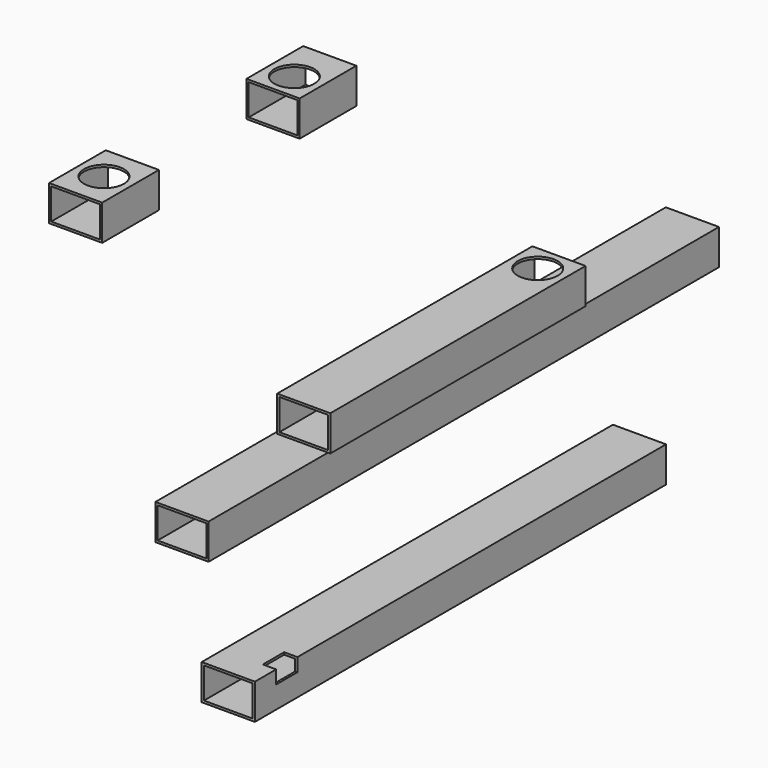
from build123d import *

# Parameters (mm, degrees)
F0_W      = 38.1
F0_H      = 25.4
F0_W_2    = 34.925
F0_H_2    = 22.225
F1_DEPTH  = 228.6
F2_W      = 38.1
F2_H      = 25.4
F2_W_2    = 34.925
F2_H_2    = 22.225
F3_DEPTH  = 228.6
F4_W      = 38.1
F4_H      = 25.4
F4_W_2    = 34.925
F4_H_2    = 22.225
F5_DEPTH  = 50.8
F6_W      = 38.1
F6_H      = 25.4
F6_W_2    = 34.925
F6_H_2    = 22.225
F7_DEPTH  = 50.8
F8_R      = 14.2875
F9_DEPTH  = 1.5875
F10_R     = 14.2875
F11_DEPTH = 12.7
F12_R     = 14.2875
F13_DEPTH = 122.115541
F14_W     = 38.1
F14_H     = 25.4
F14_W_2   = 34.925
F14_H_2   = 22.225
F15_DEPTH = 368.3
F16_W     = 19.05
F16_H     = 9.525
F17_DEPTH = 9.525


with BuildPart() as f1:
    # F0 (on Front) → F1 (new body, symmetric)
    with BuildSketch(Plane.XZ):
        Rectangle(F0_W, F0_H)
        Rectangle(F0_W_2, F0_H_2, mode=Mode.SUBTRACT)
    extrude(amount=F1_DEPTH, both=True)


with BuildPart() as f3:
    # F2 (on Front) → F3 (new body)
    with BuildSketch(Plane.XZ):
        with Locations((87.275213, 96.714541)):
            Rectangle(F2_W, F2_H)
        with Locations((87.275213, 96.714541)):
            Rectangle(F2_W_2, F2_H_2, mode=Mode.SUBTRACT)
    extrude(amount=F3_DEPTH)

    # F12 (on face) → F13 (cut, through all)
    with BuildSketch(Plane.XY.offset(109.414541)):
        with Locations((87.275213, -19.05)):
            Circle(F12_R)
    extrude(amount=-F13_DEPTH, mode=Mode.SUBTRACT)


with BuildPart() as f5:
    # F4 (on Front) → F5 (new body)
    with BuildSketch(Plane.XZ):
        with Locations((-76.968681, 169.599749)):
            Rectangle(F4_W, F4_H)
        with Locations((-76.968681, 169.599749)):
            Rectangle(F4_W_2, F4_H_2, mode=Mode.SUBTRACT)
    extrude(amount=F5_DEPTH)

    # F10 (on face) → F11 (cut)
    with BuildSketch(Plane.XY.offset(182.299749)):
        with Locations((-76.968681, -31.75)):
            Circle(F10_R)
    extrude(amount=-F11_DEPTH, mode=Mode.SUBTRACT)


with BuildPart() as f7:
    # F6 (on Front) → F7 (new body)
    with BuildSketch(Plane.XZ):
        with Locations((-218.458414, 57.868749)):
            Rectangle(F6_W, F6_H)
        with Locations((-218.458414, 57.868749)):
            Rectangle(F6_W_2, F6_H_2, mode=Mode.SUBTRACT)
    extrude(amount=F7_DEPTH)

    # F8 (on face) → F9 (cut, through all)
    with BuildSketch(Plane.XY.offset(70.568749)):
        with Locations((-218.458414, -25.4)):
            Circle(F8_R)
    extrude(amount=-F9_DEPTH, mode=Mode.SUBTRACT)


with BuildPart() as f15:
    # F14 (on Front) → F15 (new body)
    with BuildSketch(Plane.XZ):
        with Locations((144.964533, 2.928331)):
            Rectangle(F14_W, F14_H)
        with Locations((144.964533, 2.928331)):
            Rectangle(F14_W_2, F14_H_2, mode=Mode.SUBTRACT)
    extrude(amount=F15_DEPTH)

    # F16 (on face) → F17 (cut)
    with BuildSketch(Plane.YZ.offset(164.014533)):
        with Locations((-339.725, 10.865831)):
            Rectangle(F16_W, F16_H)
    extrude(amount=-F17_DEPTH, mode=Mode.SUBTRACT)


solid = Compound([f1.part, f3.part, f5.part, f7.part, f15.part])
